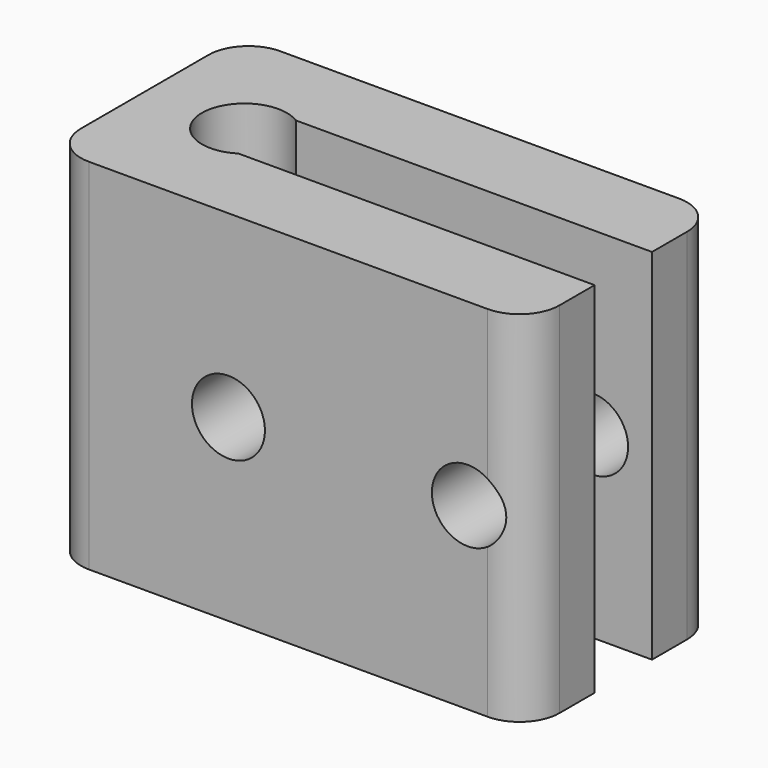
from build123d import *

# Parameters (mm, degrees)
F1_DEPTH = 30
F2_R     = 3.05
F3_DEPTH = 30


with BuildPart() as f1:
    # F0 (on Top) → F1 (new body)
    with BuildSketch(Plane.XY):
        with BuildLine():
            Line((-20, 6.6666666667), (-20, -6.6666666667))
            ThreePointArc((-20, -6.6666666667), (-19.0236892706, -9.0236892706), (-16.6666666667, -10))
            Line((-16.6666666667, -10), (16.6666666667, -10))
            ThreePointArc((16.6666666667, -10), (19.0236892706, -9.0236892706), (20, -6.6666666667))
            Line((20, -6.6666666667), (20, -3))
            Line((20, -3), (-9.7565921577, -3))
            Line((-9.7565921577, -3), (-9.7565921577, -2.9923427896))
            ThreePointArc((-9.7565921577, -2.9923427896), (-15.2166666667, 0), (-9.7565921577, 2.9923427896))
            Line((-9.7565921577, 2.9923427896), (-9.7565921577, 3))
            Line((-9.7565921577, 3), (20, 3))
            Line((20, 3), (20, 6.6666666667))
            ThreePointArc((20, 6.6666666667), (19.0236892706, 9.0236892706), (16.6666666667, 10))
            Line((16.6666666667, 10), (-16.6666666667, 10))
            ThreePointArc((-16.6666666667, 10), (-19.0236892706, 9.0236892706), (-20, 6.6666666667))
        make_face()
    extrude(amount=F1_DEPTH)

    # F2 (on face) → F3 (cut)
    with BuildSketch(Plane.XZ.offset(10)):
        with Locations((-5, 15)):
            Circle(F2_R)
        with BuildLine():
            Line((16.6666666667, 12.5055617422), (16.6666666667, 17.4944382578))
            ThreePointArc((16.6666666667, 17.4944382578), (12, 15), (16.6666666667, 12.5055617422))
        make_face()
        with BuildLine():
            ThreePointArc((16.6666666667, 12.5055617422), (17.6457513111, 13.5857864376), (18, 15))
            ThreePointArc((18, 15), (17.6457513111, 16.4142135624), (16.6666666667, 17.4944382578))
            Line((16.6666666667, 17.4944382578), (16.6666666667, 12.5055617422))
        make_face()
    extrude(amount=-F3_DEPTH, mode=Mode.SUBTRACT)


solid = f1.part
